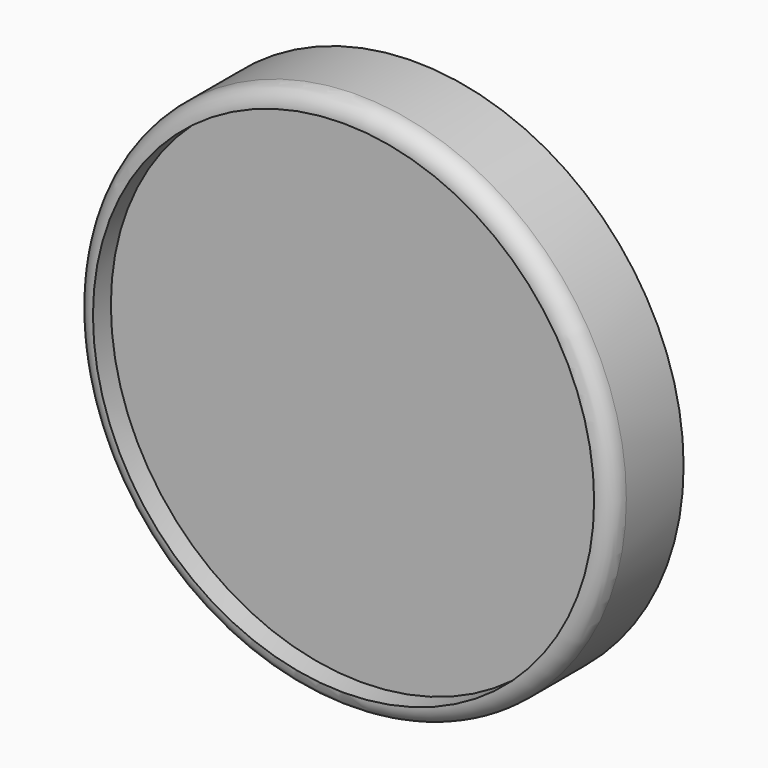
from build123d import *

# Parameters (mm, degrees)
F0_R      = 76.2
F1_DEPTH  = 25.4
F2_R      = 5.08
F1_FACE_R = 71.12
F3_DEPTH  = 6.35


with BuildPart() as f1:
    # F0 (on Front) → F1 (new body)
    with BuildSketch(Plane.XZ):
        Circle(F0_R)
    extrude(amount=F1_DEPTH)

    # F2
    f2_edges = [f1.edges().sort_by_distance(p)[0] for p in [
        (-76.2, -25.4, 0),
    ]]
    fillet(f2_edges, radius=F2_R)

    # F1_face (on face) → F3 (cut)
    with BuildSketch(Plane.XZ.offset(25.4)):
        Circle(F1_FACE_R)
    extrude(amount=-F3_DEPTH, mode=Mode.SUBTRACT)


solid = f1.part
